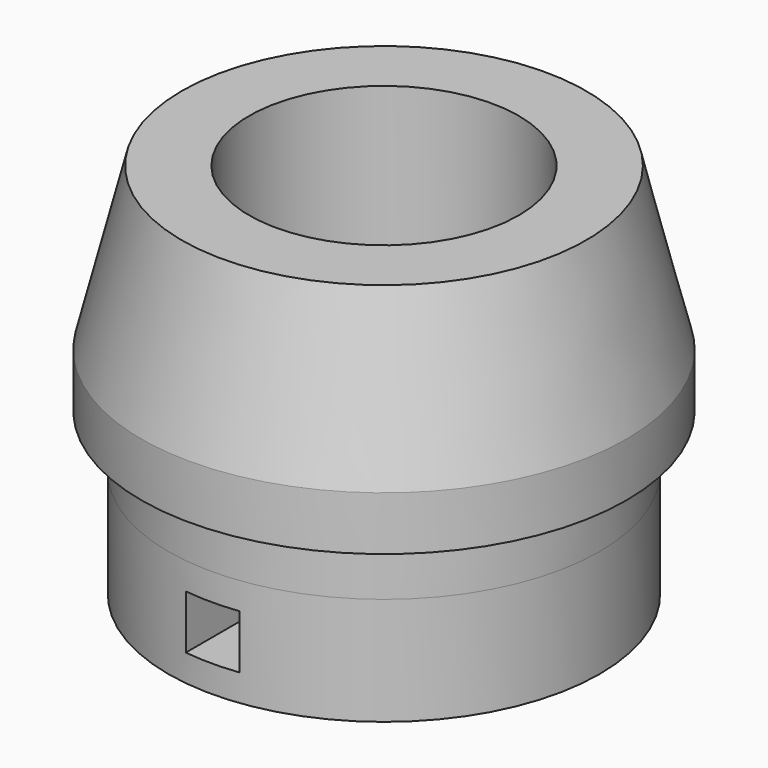
from build123d import *

# Parameters (mm, degrees)
F0_R      = 22.5
F1_DEPTH  = 25
F2_R      = 22.5
F2_R_2    = 20
F3_DEPTH  = 5
F1_FACE_R = 20
F7_DEPTH  = 10
F6_R      = 12.5
F8_DEPTH  = 30
F10_DEPTH = 25


with BuildPart() as f1:
    # F0 (on Top) → F1 (new body)
    with BuildSketch(Plane.XY):
        Circle(F0_R)
    extrude(amount=F1_DEPTH)

    # F2 (on face) → F3 (cut)
    with BuildSketch(Plane(origin=(0, 0, 0), x_dir=(1, 0, 0), z_dir=(0, 0, -1))):
        Circle(F2_R)
        Circle(F2_R_2, mode=Mode.SUBTRACT)
    extrude(amount=-F3_DEPTH, mode=Mode.SUBTRACT)

    # F4 (on Front) → F5 (revolve, cut)
    with BuildSketch(Plane.XZ):
        Polygon((-22.5, 30), (-22.5, 10), (-17.5, 30), align=None)
    revolve(axis=Axis((0, 0, 15), (0, 0, 1)), mode=Mode.SUBTRACT)

    # F1_face (on face) → F7 (join)
    with BuildSketch(Plane(origin=(0, 0, 0), x_dir=(1, 0, 0), z_dir=(0, 0, -1))):
        Circle(F1_FACE_R)
    extrude(amount=F7_DEPTH)

    # F6 (on face) → F8 (cut)
    with BuildSketch(Plane.XY.offset(25)):
        Circle(F6_R)
    extrude(amount=-F8_DEPTH, mode=Mode.SUBTRACT)

    # F9 (on Front) → F10 (cut, symmetric)
    with BuildSketch(Plane.XZ):
        Polygon((2.5, -2.5), (0, -2.5), (0, -5), (0, -7.5), (2.5, -7.5), align=None)
        Polygon((0, -5), (0, -2.5), (-2.5, -2.5), (-2.5, -7.5), (0, -7.5), align=None)
    extrude(amount=F10_DEPTH, both=True, mode=Mode.SUBTRACT)


solid = f1.part
